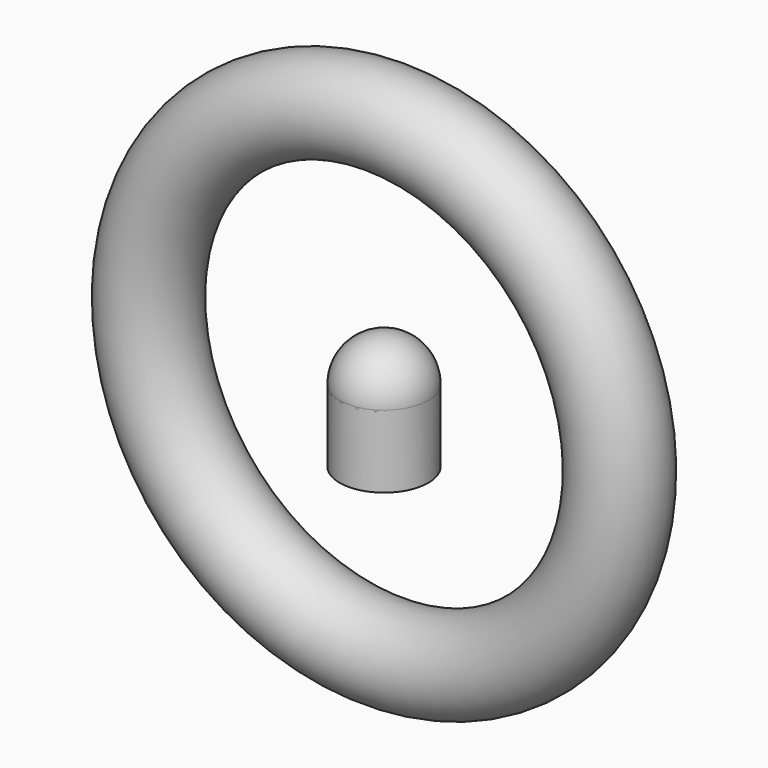
from build123d import *

# Parameters (mm, degrees)
F0_R = 76.2
F2_R = 76.2


with BuildPart() as f1:
    # F0 (on Right) → F1 (revolve)
    with BuildSketch(Plane.YZ):
        with Locations((0, 529.8828460518)):
            Circle(F0_R)
    revolve(axis=Axis((0, 0, 124.9041443931), (0, -1, 0)))


with BuildPart() as f1b:
    # F0 (on Right) → F1, piece 2 (revolve)
    with BuildSketch(Plane.YZ):
        with BuildLine():
            Line((76.2, 124.9041443931), (-76.2, 124.9041443931))
            ThreePointArc((-76.2, 124.9041443931), (0, 48.7041443931), (76.2, 124.9041443931))
        make_face()
    revolve(axis=Axis((0, 0, 124.9041443931), (0, -1, 0)))


with BuildPart() as f3:
    # F2 (on Top) → F3 (new body, up to the next surface of F1b)
    with BuildSketch(Plane.XY):
        Circle(F2_R)
    extrude(until=Until.NEXT, target=f1b.part)


solid = Compound([f1.part, f1b.part, f3.part])
